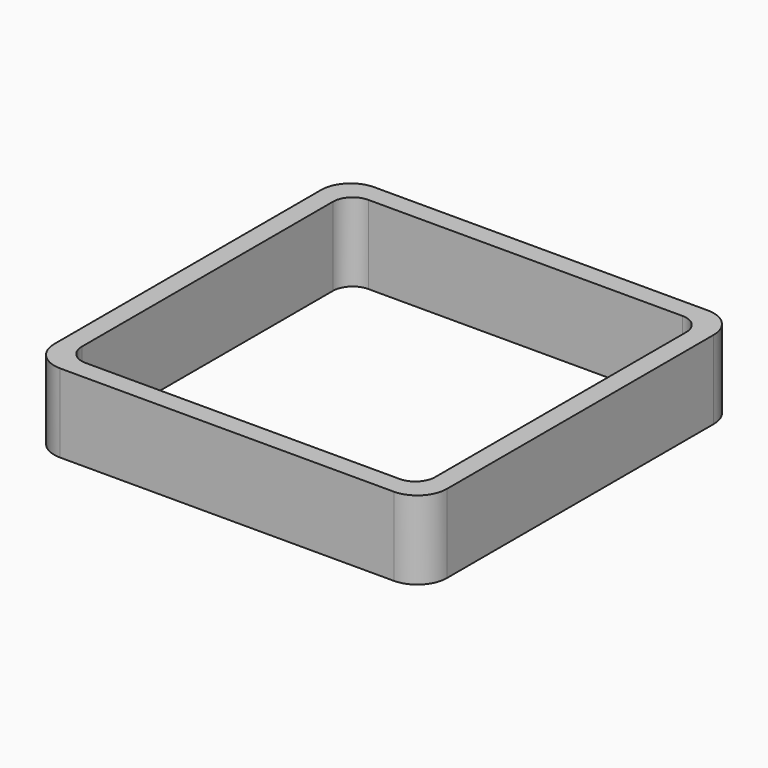
from build123d import *

# Parameters (mm, degrees)
EXTRUDE_DEPTH = 50


with BuildPart() as part:
    # Sketch → Extrude (new body)
    with BuildSketch(Plane.XY):
        with BuildLine():
            Line((-106.25, 125), (106.25, 125))
            ThreePointArc((125, 106.25), (119.508252, 119.508252), (106.25, 125))
            Line((125, 106.25), (125, -106.25))
            ThreePointArc((106.25, -125), (119.508252, -119.508252), (125, -106.25))
            Line((106.25, -125), (-106.25, -125))
            ThreePointArc((-125, -106.25), (-119.508252, -119.508252), (-106.25, -125))
            Line((-125, -106.25), (-125, 106.25))
            ThreePointArc((-106.25, 125), (-119.508252, 119.508252), (-125, 106.25))
        make_face()
        with BuildLine():
            Line((-100, 112.5), (100, 112.5))
            ThreePointArc((112.5, 100), (108.838835, 108.838835), (100, 112.5))
            Line((112.5, 100), (112.5, -100))
            ThreePointArc((100, -112.5), (108.838835, -108.838835), (112.5, -100))
            Line((100, -112.5), (-100, -112.5))
            ThreePointArc((-112.5, -100), (-108.838835, -108.838835), (-100, -112.5))
            Line((-112.5, -100), (-112.5, 100))
            ThreePointArc((-100, 112.5), (-108.838835, 108.838835), (-112.5, 100))
        make_face(mode=Mode.SUBTRACT)
    extrude(amount=EXTRUDE_DEPTH)


solid = part.part
